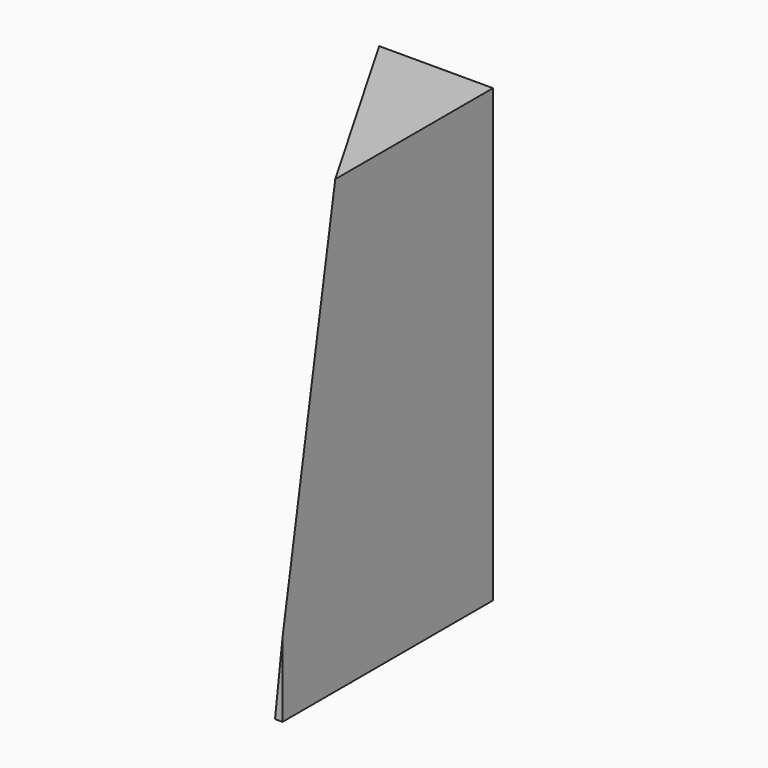
from build123d import *

# Parameters (mm, degrees)
F1_DEPTH = 600
F4_DEPTH = 409.1461884327


with BuildPart() as f1:
    # F0 (on Top) → F1 (new body)
    with BuildSketch(Plane.XY):
        Polygon((-10, 0), (0, 0), (0, 350), (-212.0725942164, 350), align=None)
    extrude(amount=F1_DEPTH)

    # F3 (on face) → F4 (cut, through all)
    with BuildSketch(Plane(origin=(-204.5725942164, 354.3301270189, 0), x_dir=(-0.8660254038, -0.5, 0), z_dir=(-0.5, 0.8660254038, 0))):
        Polygon((8.6602540378, 600), (-43.8329440777, 600), (8.6602540378, 0), align=None)
    extrude(amount=-F4_DEPTH, mode=Mode.SUBTRACT)


solid = f1.part
